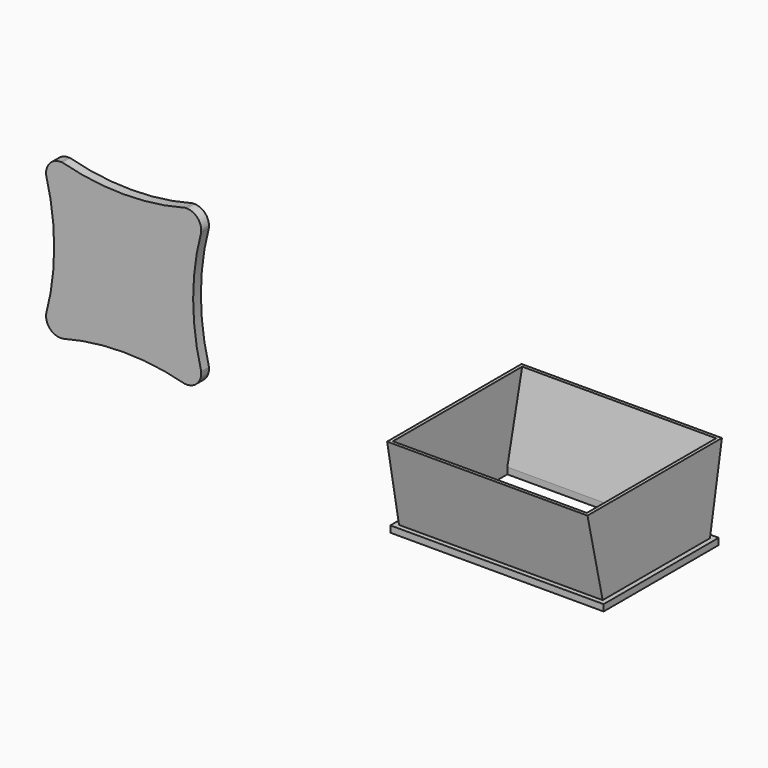
from build123d import *

# Parameters (mm, degrees)
F1_DEPTH  = 6
F2_W      = 132
F2_H      = 89
F2_W_2    = 120
F2_H_2    = 77
F3_DEPTH  = 4
F5_W      = 124
F5_H      = 104
F6_W      = 126
F6_H      = 83
F8_W      = 120
F8_H      = 100
F7_FACE_W = 120
F7_FACE_H = 77


with BuildPart() as f1:
    # F0 (on Front) → F1 (new body)
    with BuildSketch(Plane.XZ):
        with BuildLine():
            ThreePointArc((-38.7705280386, 0.5379956365), (-36.1344890693, -5.8259653942), (-29.7705280386, -8.4620043635))
            Line((-29.7705280386, -8.4620043635), (-28.7705280386, -8.4620043635))
            ThreePointArc((-28.7705280386, -8.4620043635), (9.2294719614, -3.4620043635), (47.2294719614, -8.4620043635))
            Line((47.2294719614, -8.4620043635), (48.2294719614, -8.4620043635))
            ThreePointArc((48.2294719614, -8.4620043635), (54.5934329921, -5.8259653942), (57.2294719614, 0.5379956365))
            Line((57.2294719614, 0.5379956365), (57.2294719614, 1.5379956365))
            ThreePointArc((57.2294719614, 1.5379956365), (52.2294719614, 39.5379956365), (57.2294719614, 77.5379956365))
            Line((57.2294719614, 77.5379956365), (57.2294719614, 78.5379956365))
            ThreePointArc((57.2294719614, 78.5379956365), (54.5934329921, 84.9019566671), (48.2294719614, 87.5379956365))
            Line((48.2294719614, 87.5379956365), (47.2294719614, 87.5379956365))
            ThreePointArc((47.2294719614, 87.5379956365), (9.2294719614, 82.5379956365), (-28.7705280386, 87.5379956365))
            Line((-28.7705280386, 87.5379956365), (-29.7705280386, 87.5379956365))
            ThreePointArc((-29.7705280386, 87.5379956365), (-36.1344890693, 84.9019566671), (-38.7705280386, 78.5379956365))
            Line((-38.7705280386, 78.5379956365), (-38.7705280386, 77.5379956365))
            ThreePointArc((-38.7705280386, 77.5379956365), (-33.7705280386, 39.5379956365), (-38.7705280386, 1.5379956365))
            Line((-38.7705280386, 1.5379956365), (-38.7705280386, 0.5379956365))
        make_face()
    extrude(amount=F1_DEPTH)


with BuildPart() as f3:
    # F2 (on Top) → F3 (new body)
    with BuildSketch(Plane.XY):
        with Locations((298.0748858452, -33.7703375444)):
            Rectangle(F2_W, F2_H)
        with Locations((298.0748858452, -33.7703375444)):
            Rectangle(F2_W_2, F2_H_2, mode=Mode.SUBTRACT)
    extrude(amount=F3_DEPTH)

    # F5 (on offset) → F7 section 0
    with BuildSketch(Plane.XY.offset(54)):
        with Locations((298.0748858452, -33.7703375444)):
            Rectangle(F5_W, F5_H)
    # F6 (on face) → F7 section 1
    with BuildSketch(Plane.XY.offset(4)):
        with Locations((298.0748858452, -33.7703375444)):
            Rectangle(F6_W, F6_H)
    loft()

    # F8 (on face) → F9 section 0
    with BuildSketch(Plane.XY.offset(54)):
        with Locations((298.0748858452, -33.7703375444)):
            Rectangle(F8_W, F8_H)
    # F7_face (on face) → F9 section 1
    with BuildSketch(Plane(origin=(298.0748858452, -33.7703375444, 4), x_dir=(1, 0, 0), z_dir=(0, 0, -1))):
        Rectangle(F7_FACE_W, F7_FACE_H)
    loft(mode=Mode.SUBTRACT)


solid = Compound([f1.part, f3.part])
